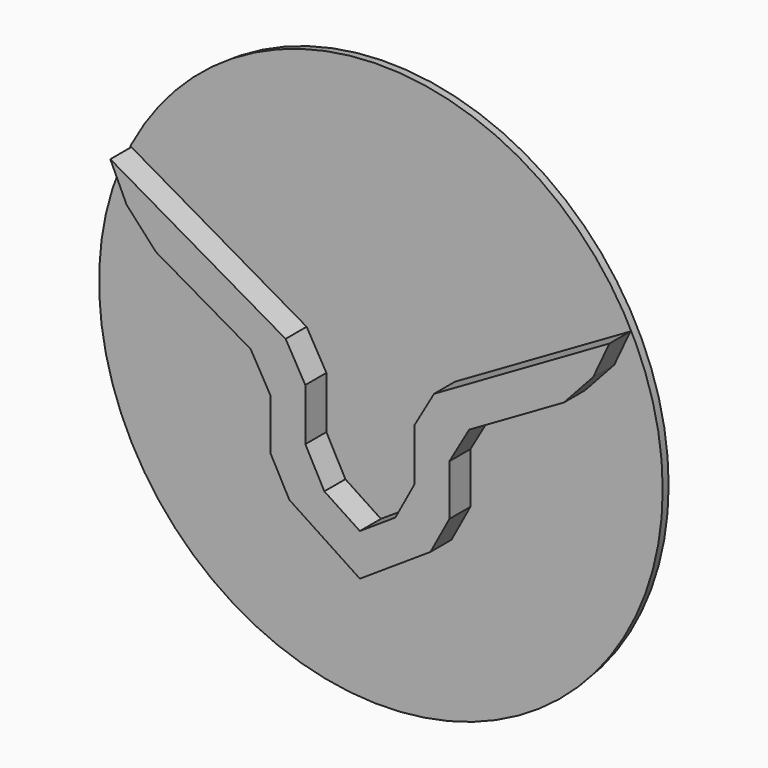
from build123d import *

# Parameters (mm, degrees)
PAD_DEPTH    = 20
SKETCH001_R  = 160.213684
PAD001_DEPTH = 5
PAD001_TAPER = -7
CHAMFER_SIZE = 13


with BuildPart() as part:
    # Sketch → Pad (new body)
    with BuildSketch(Plane.XZ):
        Polygon((0, -88.645294), (51.118267, -54.973317), (51.118267, 0), (127.669846, 44.197075), (142.406095, 75.799063), (31.118267, 11.547005), (31.118267, -44.19839), (0, -64.69622), (-31.118267, -44.19839), (-31.118267, 11.547005), (-142.406095, 75.799063), (-127.669846, 44.197075), (-51.118267, 0), (-51.118267, -54.973317), align=None)
    extrude(amount=PAD_DEPTH)

    # Sketch001 → Pad001 (join)
    with BuildSketch(Plane.XZ):
        with Locations((0, 2.38974)):
            Circle(SKETCH001_R)
    extrude(amount=PAD001_DEPTH, taper=PAD001_TAPER)

    # Chamfer
    chamfer_edges = [part.edges().sort_by_distance(p)[0] for p in [
        (31.118267, -12.5, 11.547005),
        (31.118267, -12.5, -44.19839),
        (-51.118267, -12.5, -54.973317),
        (-51.118267, -12.5, 0),
        (-127.669846, -12.5, 44.197075),
        (-31.118267, -12.5, 11.547005),
        (-31.118267, -12.5, -44.19839),
        (51.118267, -12.5, -54.973317),
        (51.118267, -12.5, 0),
        (127.669846, -12.5, 44.197075),
    ]]
    chamfer(chamfer_edges, length=CHAMFER_SIZE)


solid = part.part
